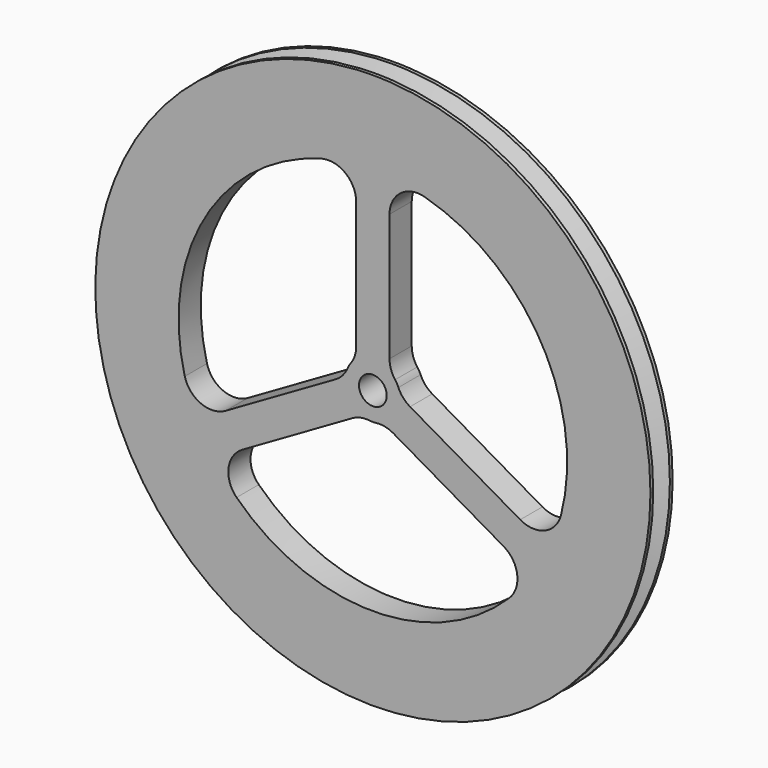
from build123d import *

# Parameters (mm, degrees)
F0_R     = 3.175
F1_DEPTH = 3.175


with BuildPart() as f1:
    # F0 (on Front) → F1 (new body, symmetric)
    with BuildSketch(Plane.XZ):
        with BuildLine():
            ThreePointArc((-3.81, 63.385597), (-43.533407, -46.228698), (63.5, 0))
            ThreePointArc((63.5, 0), (46.228698, 43.533407), (3.81, 63.385597))
            ThreePointArc((3.81, 63.385597), (0, 63.5), (-3.81, 63.385597))
        make_face()
        with BuildLine():
            ThreePointArc((-4.694114, -7.109557), (-2.792164, -6.387738), (-0.759557, -6.304409))
            ThreePointArc((-0.759557, -6.304409), (0, -6.35), (0.759557, -6.304409))
            ThreePointArc((0.759557, -6.304409), (2.792164, -6.387738), (4.694114, -7.109557))
            Line((4.694114, -7.109557), (29.895759, -21.659734))
            ThreePointArc((29.895759, -21.659734), (33.019753, -26.355763), (31.174219, -31.685494))
            ThreePointArc((31.174219, -31.685494), (0, -44.45), (-31.174219, -31.685494))
            ThreePointArc((-31.174219, -31.685494), (-33.019753, -26.355763), (-29.895759, -21.659734))
            Line((-29.895759, -21.659734), (-4.694114, -7.109557))
        make_face(mode=Mode.SUBTRACT)
        with BuildLine():
            ThreePointArc((-43.027553, -11.154919), (-38.494829, 22.225), (-11.853333, 42.840413))
            ThreePointArc((-11.853333, 42.840413), (-6.314884, 41.773826), (-3.81, 36.720354))
            Line((-3.81, 36.720354), (-3.81, 7.62))
            ThreePointArc((-3.81, 7.62), (-4.135861, 5.611954), (-5.08, 3.81))
            ThreePointArc((-5.08, 3.81), (-5.499261, 3.175), (-5.839557, 2.494409))
            ThreePointArc((-5.839557, 2.494409), (-6.928025, 0.775784), (-8.504114, -0.510443))
            Line((-8.504114, -0.510443), (-33.705759, -15.06062))
            ThreePointArc((-33.705759, -15.06062), (-39.334637, -15.418063), (-43.027553, -11.154919))
        make_face(mode=Mode.SUBTRACT)
        Circle(F0_R, mode=Mode.SUBTRACT)
        with BuildLine():
            Line((3.81, 7.62), (3.81, 36.720354))
            ThreePointArc((3.81, 36.720354), (6.314884, 41.773826), (11.853333, 42.840413))
            ThreePointArc((11.853333, 42.840413), (38.494829, 22.225), (43.027553, -11.154919))
            ThreePointArc((43.027553, -11.154919), (39.334637, -15.418063), (33.705759, -15.06062))
            Line((33.705759, -15.06062), (8.504114, -0.510443))
            ThreePointArc((8.504114, -0.510443), (6.928025, 0.775784), (5.839557, 2.494409))
            ThreePointArc((5.839557, 2.494409), (5.499261, 3.175), (5.08, 3.81))
            ThreePointArc((5.08, 3.81), (4.135861, 5.611954), (3.81, 7.62))
        make_face(mode=Mode.SUBTRACT)
    extrude(amount=F1_DEPTH, both=True)

    # F2 (on Right) → F3 (revolve, cut)
    with BuildSketch(Plane.YZ):
        Polygon((-2.38125, 63.5), (0, 57.912), (0, 63.5), align=None)
        Polygon((0, 63.5), (0, 57.912), (2.38125, 63.5), align=None)
    revolve(axis=Axis((0, 1.457195, 0), (0, 1, 0)), mode=Mode.SUBTRACT)


solid = f1.part
